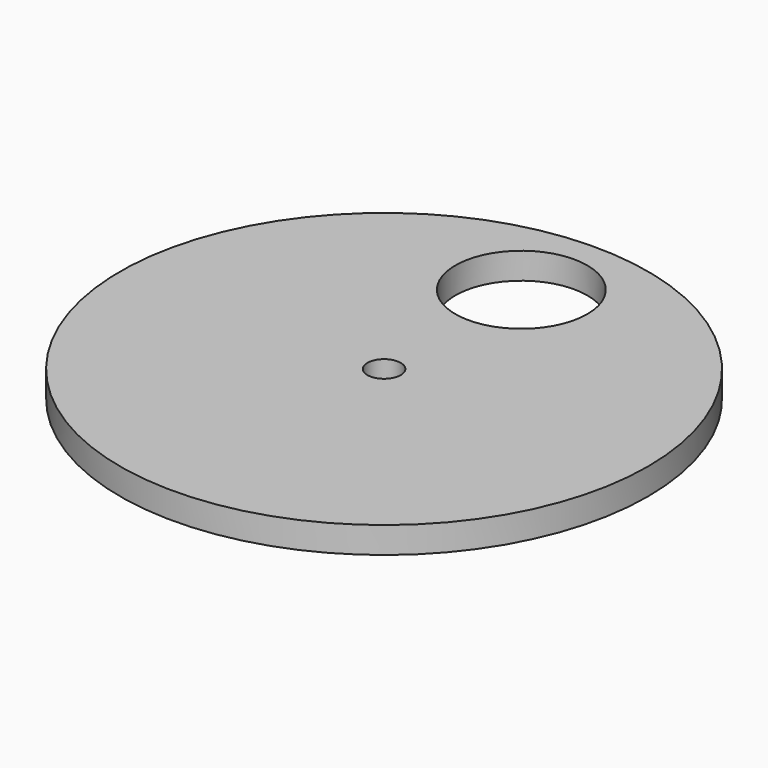
from build123d import *

# Parameters (mm, degrees)
F0_R     = 50
F0_R_2   = 3.15
F0_R_3   = 12.5
F1_DEPTH = 5


with BuildPart() as f1:
    # F0 (on Top) → F1 (new body)
    with BuildSketch(Plane.XY):
        Circle(F0_R)
        Circle(F0_R_2, mode=Mode.SUBTRACT)
        with Locations((0, 32.5)):
            Circle(F0_R_3, mode=Mode.SUBTRACT)
    extrude(amount=F1_DEPTH)


solid = f1.part
